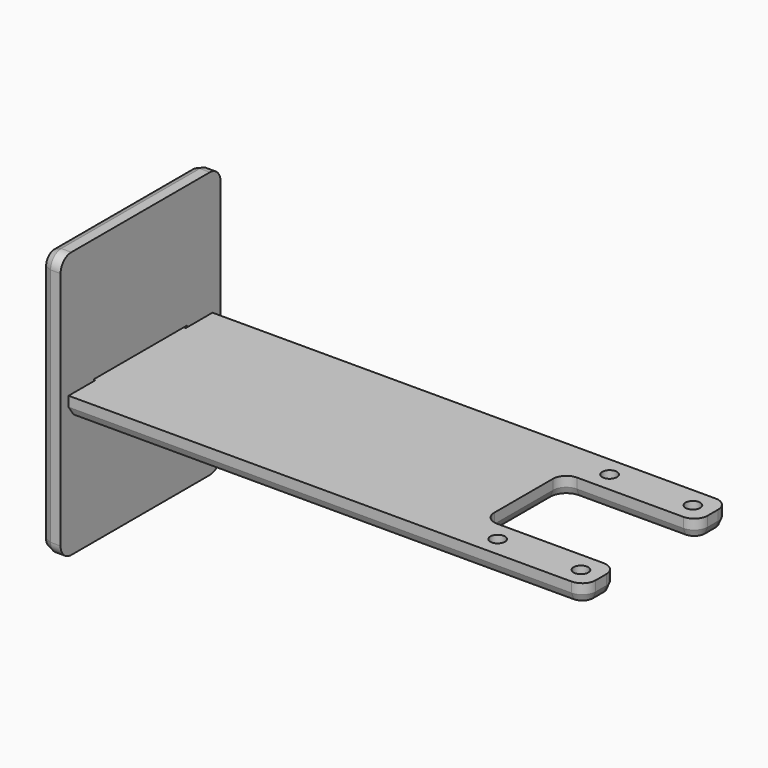
from build123d import *

# Parameters (mm, degrees)
F0_R     = 1.1
F1_DEPTH = 2.5
F2_W     = 17.5
F2_H     = 3
F3_DEPTH = 2.5
F4_SIZE2 = 0.4
F4_SIZE  = 1
F5_SIZE2 = 0.4
F5_SIZE  = 1


with BuildPart() as f1:
    # F0 (on Top) → F1 (new body)
    with BuildSketch(Plane.XY):
        with BuildLine():
            Line((-60, 4), (-60, -1))
            Line((-60, -1), (15.5, -1))
            ThreePointArc((15.5, -1), (16.914214, -0.414214), (17.5, 1))
            Line((17.5, 1), (17.5, 3))
            ThreePointArc((17.5, 3), (16.914214, 4.414214), (15.5, 5))
            Line((15.5, 5), (-0.5, 5))
            ThreePointArc((-0.5, 5), (-1.914214, 5.585786), (-2.5, 7))
            Line((-2.5, 7), (-2.5, 18))
            ThreePointArc((-2.5, 18), (-1.914214, 19.414214), (-0.5, 20))
            Line((-0.5, 20), (15.5, 20))
            ThreePointArc((15.5, 20), (16.914214, 20.585786), (17.5, 22))
            Line((17.5, 22), (17.5, 24))
            ThreePointArc((17.5, 24), (16.914214, 25.414214), (15.5, 26))
            Line((15.5, 26), (-60, 26))
            Line((-60, 26), (-60, 21))
            Line((-60, 21), (-62.5, 21))
            Line((-62.5, 21), (-62.5, 4))
            Line((-62.5, 4), (-60, 4))
        make_face()
        with Locations((2, 2)):
            Circle(F0_R, mode=Mode.SUBTRACT)
        with Locations((14.5, 2)):
            Circle(F0_R, mode=Mode.SUBTRACT)
        with Locations((2, 23)):
            Circle(F0_R, mode=Mode.SUBTRACT)
        with Locations((14.5, 23)):
            Circle(F0_R, mode=Mode.SUBTRACT)
    extrude(amount=-F1_DEPTH)

    # F5
    f5_edges = [f1.edges().sort_by_distance(p)[0] for p in [
        (-61.25, 21, -2.5),
        (-62.5, 12.5, -2.5),
        (-61.25, 4, -2.5),
        (-60, 1.5, -2.5),
        (-22.25, -1, -2.5),
        (16.914214, -0.414214, -2.5),
        (17.5, 2, -2.5),
        (16.914214, 4.414214, -2.5),
        (7.5, 5, -2.5),
        (-1.914214, 5.585786, -2.5),
        (-2.5, 12.5, -2.5),
        (-1.914214, 19.414214, -2.5),
        (7.5, 20, -2.5),
        (16.914214, 20.585786, -2.5),
        (17.5, 23, -2.5),
        (16.914214, 25.414214, -2.5),
        (-22.25, 26, -2.5),
        (-60, 23.5, -2.5),
        (0.9, 2, -2.5),
        (13.4, 2, -2.5),
        (0.9, 23, -2.5),
        (13.4, 23, -2.5),
    ]]
    chamfer(f5_edges, length=F5_SIZE, length2=F5_SIZE2)


with BuildPart() as f3:
    # F2 (on face) → F3 (new body, through all)
    with BuildSketch(Plane(origin=(-62.5, 0, 0), x_dir=(0, -1, 0), z_dir=(-1, 0, 0))):
        with BuildLine():
            Line((0.5, 18.75), (-25.5, 18.75))
            ThreePointArc((-25.5, 18.75), (-26.914214, 18.164214), (-27.5, 16.75))
            Line((-27.5, 16.75), (-27.5, -19.25))
            ThreePointArc((-27.5, -19.25), (-26.914214, -20.664214), (-25.5, -21.25))
            Line((-25.5, -21.25), (0.5, -21.25))
            ThreePointArc((0.5, -21.25), (1.914214, -20.664214), (2.5, -19.25))
            Line((2.5, -19.25), (2.5, 16.75))
            ThreePointArc((2.5, 16.75), (1.914214, 18.164214), (0.5, 18.75))
        make_face()
        with Locations((-12.5, -1.25)):
            Rectangle(F2_W, F2_H, mode=Mode.SUBTRACT)
    extrude(amount=-F3_DEPTH)

    # F4
    f4_edges = [f3.edges().sort_by_distance(p)[0] for p in [
        (-62.5, -1.914214, 18.164214),
        (-62.5, 12.5, 18.75),
        (-62.5, 26.914214, 18.164214),
        (-62.5, 27.5, -1.25),
        (-62.5, 26.914214, -20.664214),
        (-62.5, 12.5, -21.25),
        (-62.5, -1.914214, -20.664214),
        (-62.5, -2.5, -1.25),
        (-62.5, 12.5, 0.25),
        (-62.5, 3.75, -1.25),
        (-62.5, 12.5, -2.75),
        (-62.5, 21.25, -1.25),
    ]]
    chamfer(f4_edges, length=F4_SIZE, length2=F4_SIZE2)


solid = Compound([f1.part, f3.part])
